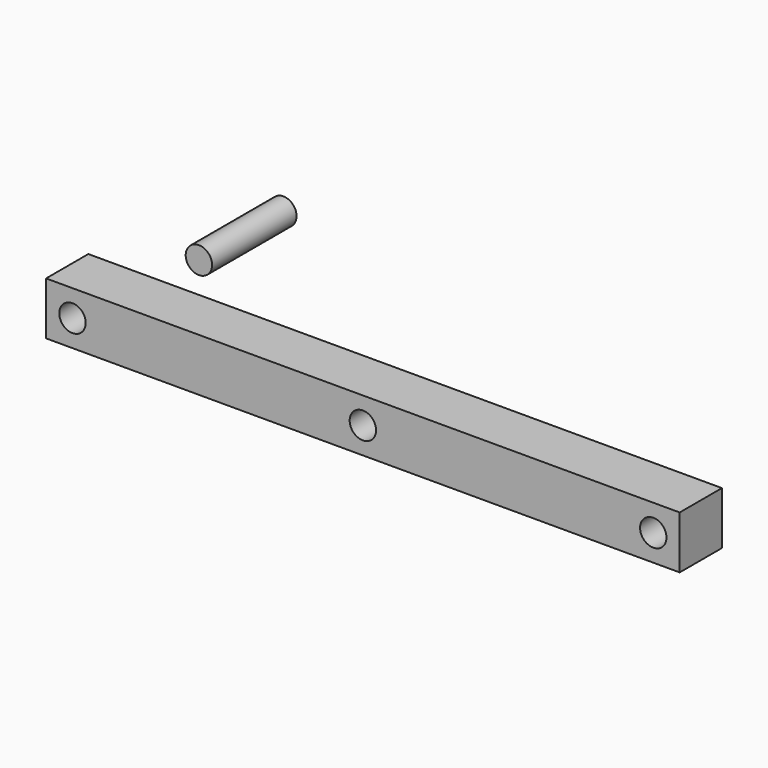
from build123d import *

# Parameters (mm, degrees)
F0_R     = 6.35
F1_DEPTH = 25.4
F2_R     = 6.35
F3_DEPTH = 50.8


with BuildPart() as f1:
    # F0 (on Front) → F1 (new body)
    with BuildSketch(Plane.XZ):
        Polygon((0, 12.7), (-152.4, 12.7), (-152.4, -12.7), (152.4, -12.7), (152.4, 12.7), align=None)
        with Locations((-139.7, 0)):
            Circle(F0_R, mode=Mode.SUBTRACT)
        Circle(F0_R, mode=Mode.SUBTRACT)
        with Locations((139.7, 0)):
            Circle(F0_R, mode=Mode.SUBTRACT)
    extrude(amount=F1_DEPTH)


with BuildPart() as f3:
    # F2 (on Front) → F3 (new body)
    with BuildSketch(Plane.XZ):
        with Locations((-58.570847, 61.297685)):
            Circle(F2_R)
    extrude(amount=F3_DEPTH)


solid = Compound([f1.part, f3.part])
